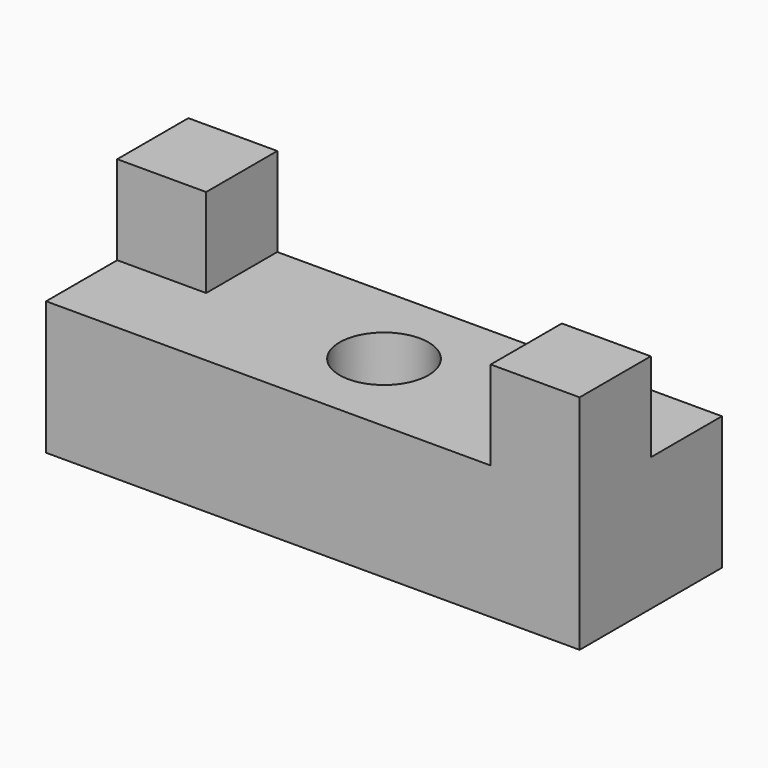
from build123d import *

# Parameters (mm, degrees)
F0_W     = 76.2
F0_H     = 25.4
F1_DEPTH = 19.05
F2_W     = 12.7
F2_H     = 12.7
F3_DEPTH = 12.7
F4_R     = 6.35
F5_DEPTH = 19.05


with BuildPart() as f1:
    # F0 (on Top) → F1 (new body)
    with BuildSketch(Plane.XY):
        with Locations((-38.1, 12.7)):
            Rectangle(F0_W, F0_H)
    extrude(amount=F1_DEPTH)

    # F2 (on face) → F3 (join)
    with BuildSketch(Plane.XY.offset(19.05)):
        with Locations((-69.85, 19.05)):
            Rectangle(F2_W, F2_H)
        with Locations((-6.35, 6.35)):
            Rectangle(F2_W, F2_H)
    extrude(amount=F3_DEPTH)

    # F4 (on face) → F5 (cut)
    with BuildSketch(Plane(origin=(0, 0, 0), x_dir=(1, 0, 0), z_dir=(0, 0, -1))):
        with Locations((-38.1, -12.7)):
            Circle(F4_R)
    extrude(amount=-F5_DEPTH, mode=Mode.SUBTRACT)


solid = f1.part
